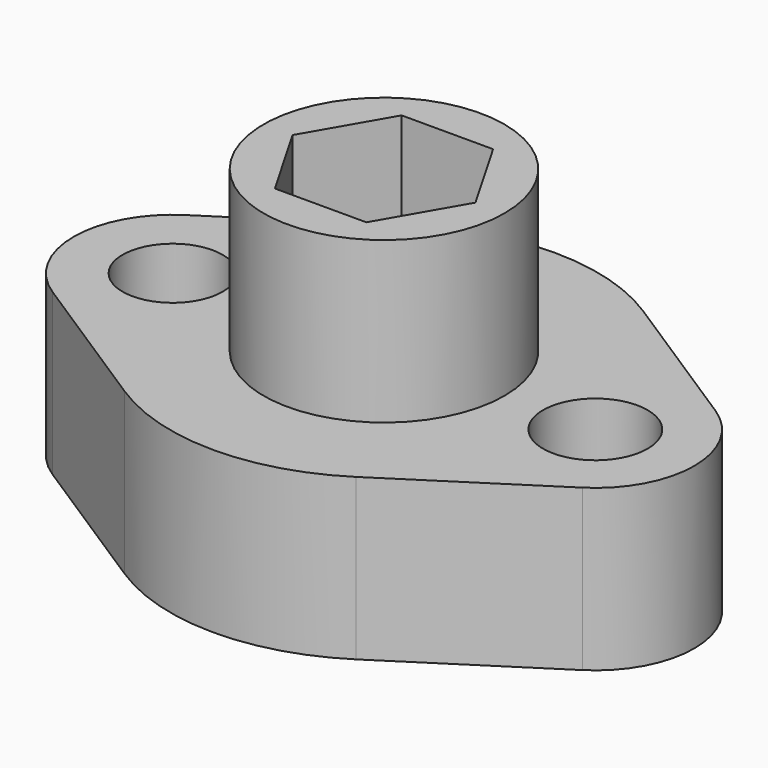
from build123d import *

# Parameters (mm, degrees)
F0_R     = 19.05
F1_DEPTH = 50.8
F0_R_2   = 7.910149
F0_R_3   = 8.267047
F2_DEPTH = 25.4


with BuildPart() as f1:
    # F0 (on Top) → F1 (new body)
    with BuildSketch(Plane.XY):
        Circle(F0_R)
        Polygon((-14.46171, 0), (-7.230855, 12.524208), (7.230855, 12.524208), (14.46171, 0), (7.230855, -12.524208), (-7.230855, -12.524208), align=None, mode=Mode.SUBTRACT)
    extrude(amount=F1_DEPTH)

    # F0 (on Top) → F2 (join)
    with BuildSketch(Plane.XY):
        with BuildLine():
            Line((41.896296, 13.150277), (18.295852, 28.370153))
            ThreePointArc((18.295852, 28.370153), (0, 33.758018), (-18.295852, 28.370153))
            Line((-18.295852, 28.370153), (-41.896296, 13.150277))
            ThreePointArc((-41.896296, 13.150277), (-49.063398, 0), (-41.896296, -13.150277))
            Line((-41.896296, -13.150277), (-18.295852, -28.370153))
            ThreePointArc((-18.295852, -28.370153), (0, -33.758018), (18.295852, -28.370153))
            Line((18.295852, -28.370153), (41.896296, -13.150277))
            ThreePointArc((41.896296, -13.150277), (49.063398, 0), (41.896296, 13.150277))
        make_face()
        with Locations((-33.415711, 0)):
            Circle(F0_R_2, mode=Mode.SUBTRACT)
        Circle(F0_R, mode=Mode.SUBTRACT)
        with Locations((33.415711, 0)):
            Circle(F0_R_3, mode=Mode.SUBTRACT)
    extrude(amount=F2_DEPTH)


solid = f1.part
